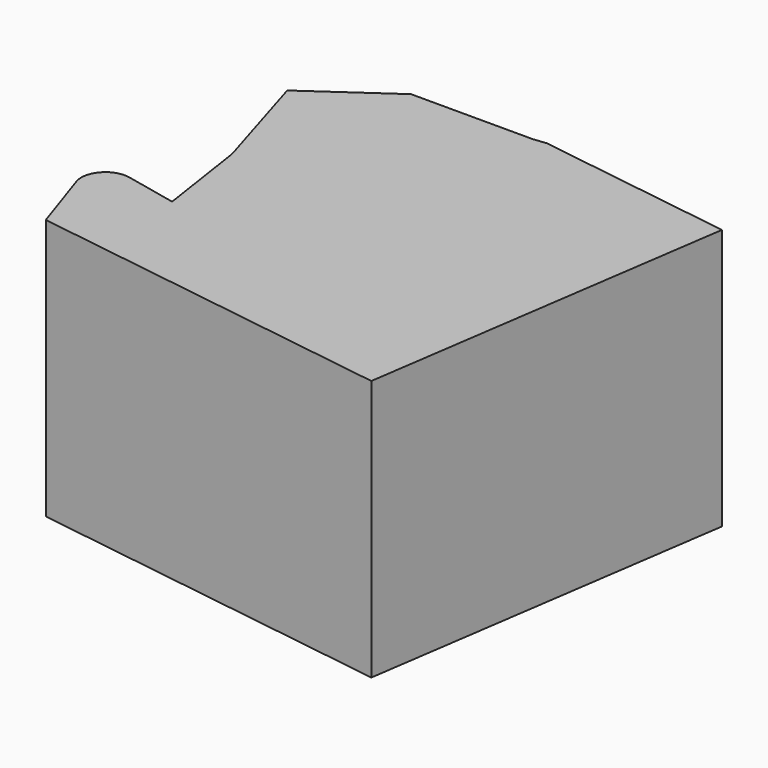
from build123d import *

# Parameters (mm, degrees)
F1_DEPTH = 54.969072
F2_R     = 5.08


with BuildPart() as f1:
    # F0 (on Top) → F1 (new body)
    with BuildSketch(Plane.XY):
        Polygon((-47.309477, -24.543241), (-47.159493, -24.803005), (30.39065, -36.140323), (41.796055, 41.875556), (0, 47.985862), (-2.593488, 47.686279), (-28.316755, 47.686279), (-45.030467, 36.000729), (-37.987851, 12.704059), (-35.073638, -6.741583), (-54.681472, -2.475828), align=None)
    extrude(amount=F1_DEPTH)

    # F2
    f2_edges = [f1.edges().sort_by_distance(p)[0] for p in [
        (-37.987851, 12.704059, 27.484536),
        (-54.681472, -2.475828, 27.484536),
    ]]
    fillet(f2_edges, radius=F2_R)


solid = f1.part
